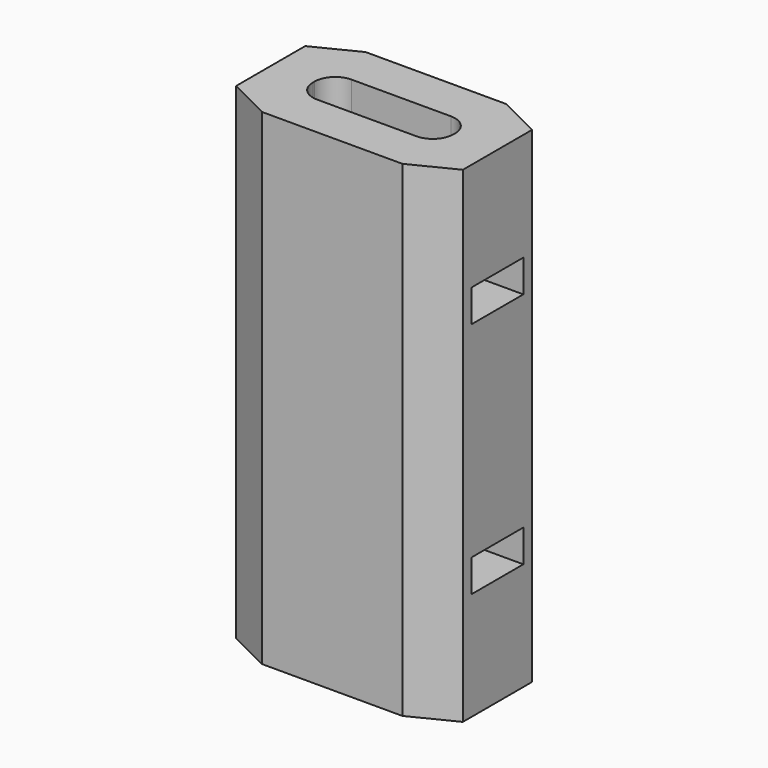
from build123d import *

# Parameters (mm, degrees)
BOX166_W               = 6
BOX166_H               = 26
BOX166_DEPTH           = 3
BOX165_W               = 4
BOX165_H               = 53
BOX165_DEPTH           = 13
FILLET020_R            = 1.9
BOX164_W               = 6
BOX164_H               = 26
BOX164_DEPTH           = 3
BOX163_W               = 12
BOX163_H               = 21
BOX163_DEPTH           = 45
CHAMFER064_1_SIZE2     = 2
CHAMFER064_1_SIZE      = 4
CHAMFER064_2_SIZE2     = 2
CHAMFER064_2_SIZE      = 4
CUT060_PLACEMENT_ANGLE = 90


with BuildPart() as cube166:
    # Box166 → Box166 (new body)
    with BuildSketch(Plane(origin=(2, -2.5, 35), x_dir=(1, 0, 0), z_dir=(0, 0, 1))):
        with Locations((3, 13)):
            Rectangle(BOX166_W, BOX166_H)
    extrude(amount=BOX166_DEPTH)


with BuildPart() as fillet020:
    # Box165 → Box165 (new body)
    with BuildSketch(Plane(origin=(3, 4, 50), x_dir=(1, 0, 0), z_dir=(0, 1, 0))):
        with Locations((2, 26.5)):
            Rectangle(BOX165_W, BOX165_H)
    extrude(amount=BOX165_DEPTH)

    # Fillet020
    fillet020_edges = [fillet020.edges().sort_by_distance(p)[0] for p in [
        (3, 17, 23.5),
        (3, 4, 23.5),
        (7, 17, 23.5),
        (7, 4, 23.5),
    ]]
    fillet(fillet020_edges, radius=FILLET020_R)


with BuildPart() as fusion086:
    # Box164 → Box164 (new body)
    with BuildSketch(Plane(origin=(2, -2.5, 13), x_dir=(1, 0, 0), z_dir=(0, 0, 1))):
        with Locations((3, 13)):
            Rectangle(BOX164_W, BOX164_H)
    extrude(amount=BOX164_DEPTH)

    # Fusion086: union Cube166, Fillet020
    add(cube166.part)
    add(fillet020.part)


with BuildPart() as obj1:
    # Box163 → Box163 (new body)
    with BuildSketch(Plane(origin=(-1, 0, 3), x_dir=(1, 0, 0), z_dir=(0, 0, 1))):
        with Locations((6, 10.5)):
            Rectangle(BOX163_W, BOX163_H)
    extrude(amount=BOX163_DEPTH)

    # Chamfer064 1
    chamfer064_1_edges = [obj1.edges().sort_by_distance(p)[0] for p in [
        (11, 0, 25.5),
        (11, 21, 25.5),
    ]]
    chamfer064_1_side = obj1.faces().sort_by_distance((11, 10.5, 25.5))[0]
    chamfer(chamfer064_1_edges, length=CHAMFER064_1_SIZE, length2=CHAMFER064_1_SIZE2, reference=chamfer064_1_side)

    # Chamfer064 2
    chamfer064_2_edges = [obj1.edges().sort_by_distance(p)[0] for p in [
        (-1, 0, 25.5),
        (-1, 21, 25.5),
    ]]
    chamfer064_2_side = obj1.faces().sort_by_distance((-1, 10.5, 25.5))[0]
    chamfer(chamfer064_2_edges, length=CHAMFER064_2_SIZE, length2=CHAMFER064_2_SIZE2, reference=chamfer064_2_side)

    # Cut060: cut Fusion086
    add(fusion086.part, mode=Mode.SUBTRACT)


with BuildPart() as obj1_1:
    # Cut060 placement: moved
    add(obj1.part.moved(Location((-169.5, 2.5, 0))).rotate(Axis((-169.5, 2.5, 0), (0, 0, -1)), CUT060_PLACEMENT_ANGLE))


solid = obj1_1.part
